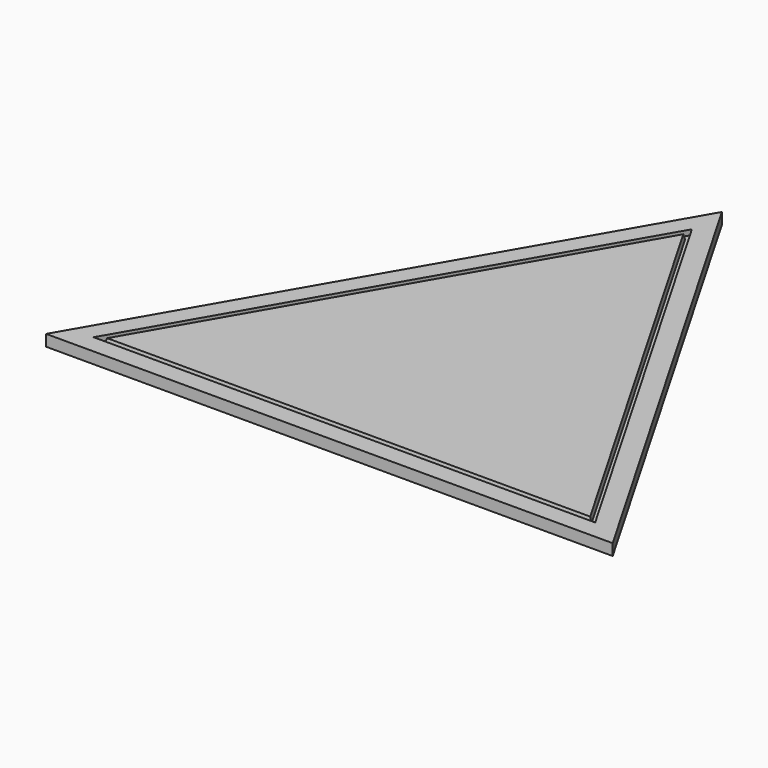
from build123d import *

# Parameters (mm, degrees)
F4_DEPTH = 7


with BuildPart() as f4:
    # F0 (on Top) → F4 (new body)
    with BuildSketch(Plane.XY):
        Polygon((175, -101.0362971082), (0, 202.0725942164), (-175, -101.0362971082), align=None)
    extrude(amount=-F4_DEPTH)

    # F3: sweep along a path in F2
    with BuildLine(Plane.XY) as f3_path:
        Line((-149.1875, -86.1334432847), (149.1875, -86.1334432847))
        Line((149.1875, -86.1334432847), (0, 172.2668865695))
        Line((0, 172.2668865695), (-149.1875, -86.1334432847))
    # F1 (on Right) → F3 (sweep, cut)
    with BuildSketch(Plane.YZ):
        Polygon((-86.8137743667, -3.5), (-86.1334432847, 0), (-89.4442725433, 0), (-90.1246036253, -3.5), align=None)
    sweep(path=f3_path.line, transition=Transition.RIGHT, mode=Mode.SUBTRACT)


solid = f4.part
